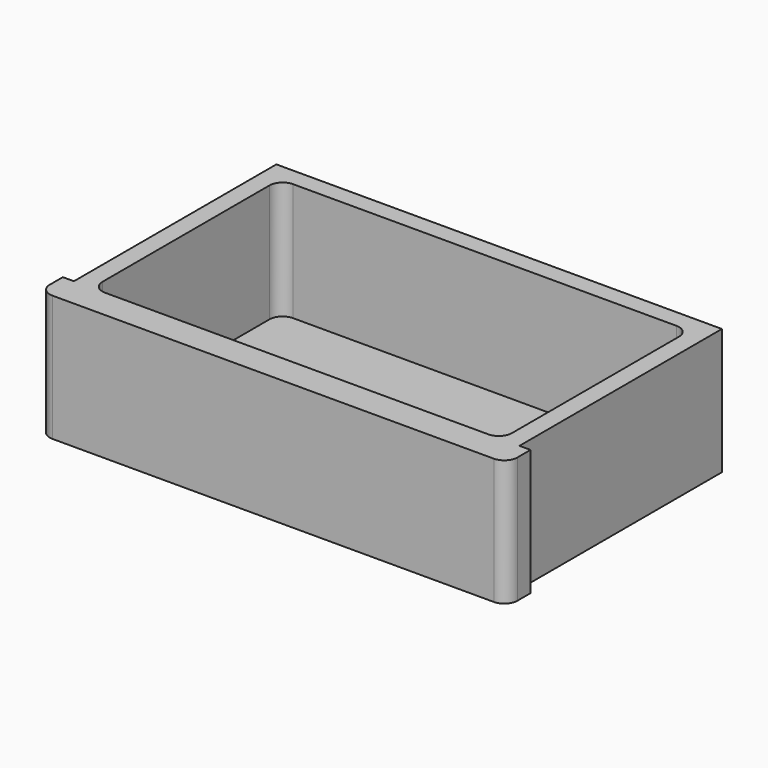
from build123d import *

# Parameters (mm, degrees)
F0_W     = 906.4625
F0_H     = 547.6875
F1_DEPTH = 244.475
F2_W     = 21.43125
F2_H     = 490.5375
F3_DEPTH = 244.476
F4_R     = 25.4
F5_W     = 793.75
F5_H     = 455.6125
F6_DEPTH = 228.6
F7_R     = 25.4


with BuildPart() as f1:
    # F0 (on Top) → F1 (new body)
    with BuildSketch(Plane.XY):
        with Locations((15.469722, -72.404954)):
            Rectangle(F0_W, F0_H)
    extrude(amount=F1_DEPTH)

    # F2 (on face) → F3 (cut, through all)
    with BuildSketch(Plane.XY.offset(244.475)):
        with Locations((-427.045903, -43.829954)):
            Rectangle(F2_W, F2_H)
        with Locations((457.985347, -43.829954)):
            Rectangle(F2_W, F2_H)
    extrude(amount=-F3_DEPTH, mode=Mode.SUBTRACT)

    # F4
    f4_edges = [f1.edges().sort_by_distance(p)[0] for p in [
        (-437.761528, -346.248704, 122.2375),
        (468.700972, -346.248704, 122.2375),
    ]]
    fillet(f4_edges, radius=F4_R)

    # F5 (on face) → F6 (cut)
    with BuildSketch(Plane.XY.offset(244.475)):
        with Locations((15.469722, -61.292454)):
            Rectangle(F5_W, F5_H)
    extrude(amount=-F6_DEPTH, mode=Mode.SUBTRACT)

    # F7
    f7_edges = [f1.edges().sort_by_distance(p)[0] for p in [
        (412.344722, 166.513796, 130.175),
        (-381.405278, 166.513796, 130.175),
        (-381.405278, -289.098704, 130.175),
        (412.344722, -289.098704, 130.175),
    ]]
    fillet(f7_edges, radius=F7_R)


solid = f1.part
